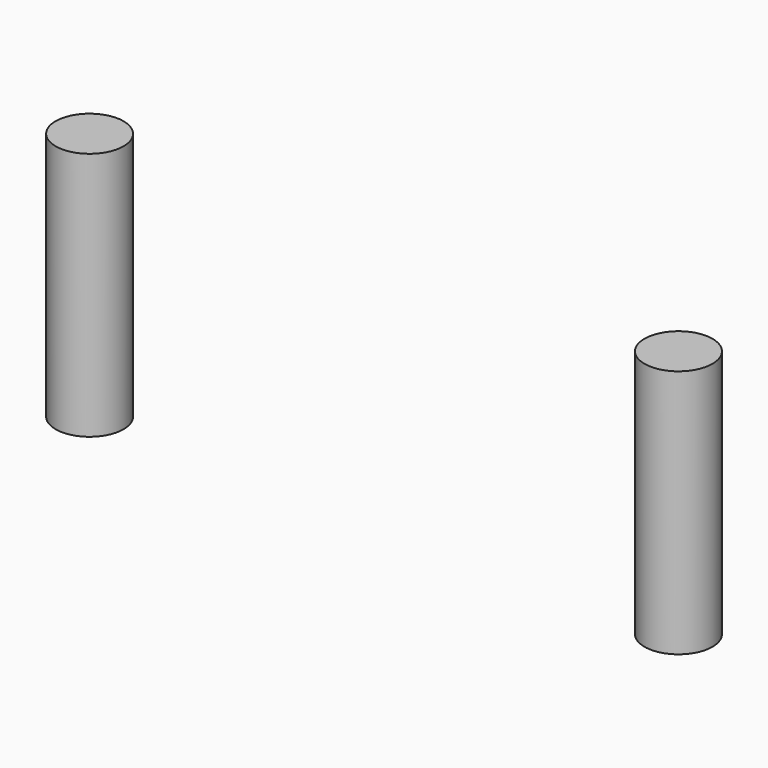
from build123d import *

# Parameters (mm, degrees)
CYLINDER103_R     = 1.5
CYLINDER103_DEPTH = 11
CYLINDER107_R     = 1.5
CYLINDER107_DEPTH = 11


with BuildPart() as obj1:
    # Cylinder103 → Cylinder103 (new body)
    with BuildSketch(Plane(origin=(99.69, 175.69, 0), x_dir=(1, 0, 0), z_dir=(0, 0, 1))):
        Circle(CYLINDER103_R)
    extrude(amount=CYLINDER103_DEPTH)


with BuildPart() as obj2:
    # Cylinder107 → Cylinder107 (new body)
    with BuildSketch(Plane(origin=(73.69, 175.69, 0), x_dir=(1, 0, 0), z_dir=(0, 0, 1))):
        Circle(CYLINDER107_R)
    extrude(amount=CYLINDER107_DEPTH)

    # Fusion047: union obj1
    add(obj1.part)


solid = obj2.part
